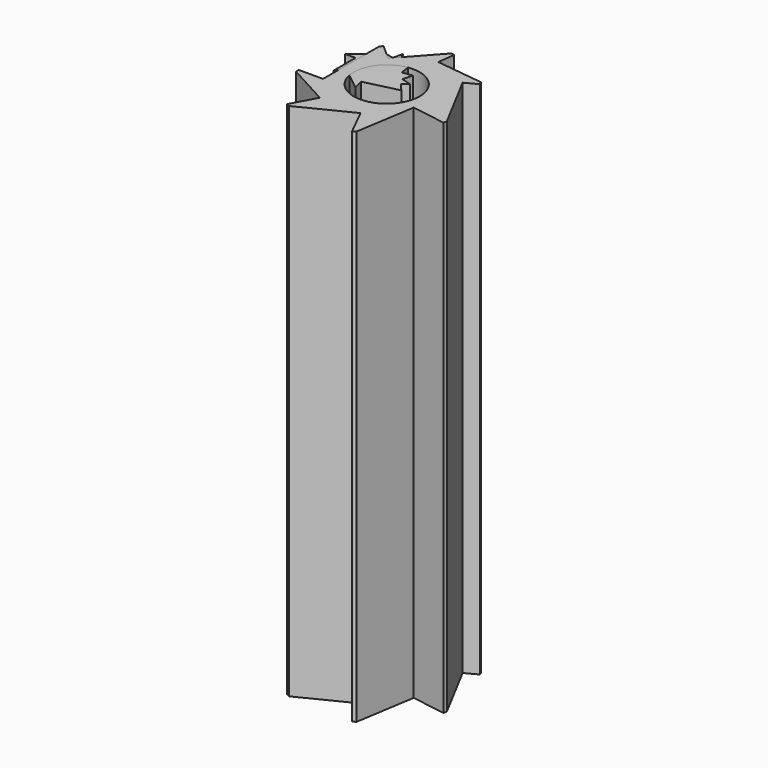
from build123d import *

# Parameters (mm, degrees)
PAD_DEPTH    = 150
SKETCH001_R  = 9.5
PAD001_DEPTH = 150


with BuildPart() as body:
    # Sketch (on XY_Plane of Origin) → Pad (new body)
    with BuildSketch(Plane.XY):
        Polygon((2.521598, 2.057901), (4.071085, 3.322453), (1.186838, 4.147752), (2.012136, 7.031999), (-0.956841, 6.601678), (-1.530602, 10.560314), (-4.258844, 9.312638), (-6.338304, 13.859708), (-7.044561, 10.944026), (-12.875925, 12.356541), (-11.021036, 9.998706), (-16.522651, 5.670631), (-13.522651, 5.670631), (-13.522651, -2.329369), (-11.667762, 0.028466), (-4.594257, -5.536202), (-5.300514, -2.62052), (4.418426, -0.266329), align=None)
    extrude(amount=PAD_DEPTH)


with BuildPart() as corps:
    # Sketch001 (on XY_Plane001 of Origin002) → Pad001 (new body)
    with BuildSketch(Plane.XY):
        Polygon((12.871546, 11.295163), (16.403886, 13.172015), (15.934673, 14.0551), (2.311261, 15.731894), (2.92206, 20.694446), (1.92955, 20.816606), (-7.72675, 10.098511), (-12.184443, 14.1146), (-12.853792, 13.371651), (-12.853792, -6.911691), (-19.853792, -6.911691), (-19.853792, -7.911691), (-7.657095, -14.54171), (-11.477816, -21.570373), (-10.599233, -22.047963), (4.195006, -14.680891), (8.206833, -22.737271), (9.101986, -22.291512), (11.848638, -5.073887), (21.723775, -6.649224), (21.881308, -5.66171), align=None)
        Circle(SKETCH001_R, mode=Mode.SUBTRACT)
    extrude(amount=PAD001_DEPTH)


solid = Compound([body.part, corps.part])
